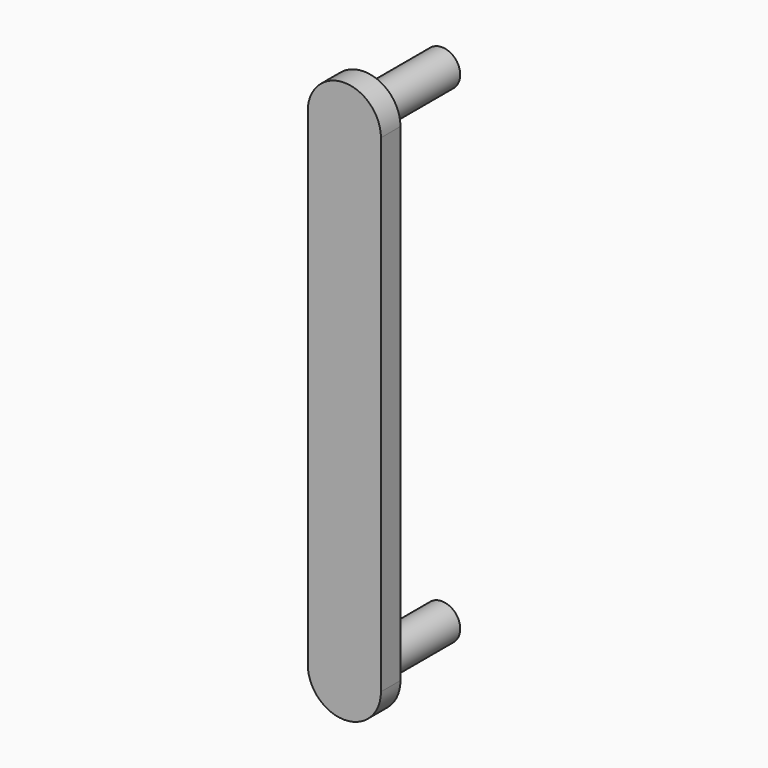
from build123d import *

# Parameters (mm, degrees)
F0_R     = 1.5
F1_DEPTH = 10
F3_R     = 1.5
F4_DEPTH = 10
F5_DEPTH = 2


with BuildPart() as f1:
    # F0 (on Front) → F1 (new body)
    with BuildSketch(Plane.XZ):
        Circle(F0_R)
    extrude(amount=-F1_DEPTH)



with BuildPart() as f4:
    # F3 (on Front) → F4 (new body, through all)
    with BuildSketch(Plane.XZ):
        with Locations((0, -40)):
            Circle(F3_R)
    extrude(amount=-F4_DEPTH)


with BuildPart() as f1_1:
    add(f1.part)

    add(f4.part)  # F5 merges F4
    # F2 (on Front) → F5 (join)
    with BuildSketch(Plane.XZ):
        with BuildLine():
            ThreePointArc((3, 0), (0, 3), (-3, 0))
            Line((-3, 0), (-3, -40))
            ThreePointArc((-3, -40), (0, -43), (3, -40))
            Line((3, -40), (3, 0))
        make_face()
    extrude(amount=-F5_DEPTH)


solid = f1_1.part
